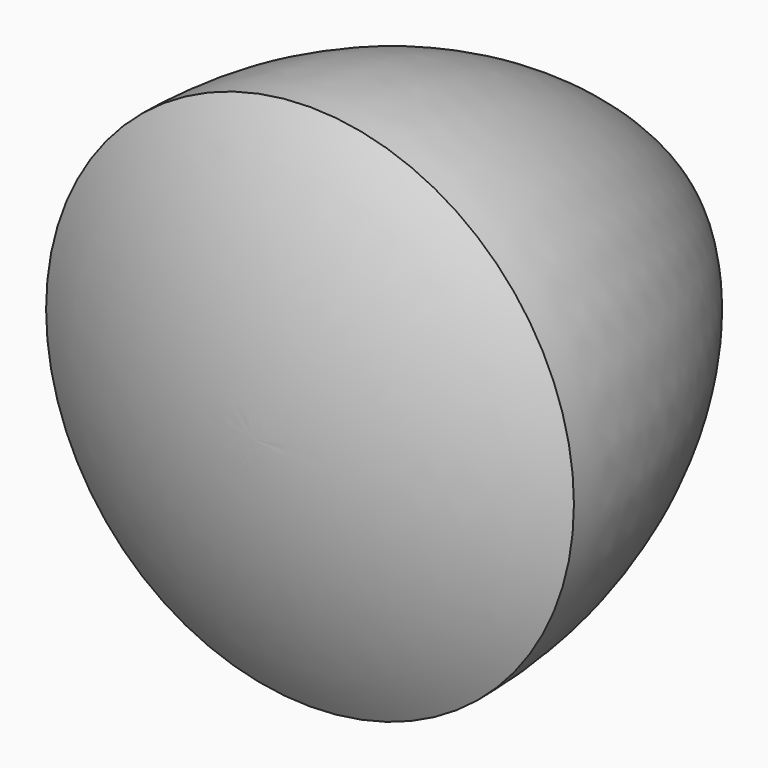
from build123d import *


with BuildPart() as f1:
    # F0 (on Top) → F1 (revolve)
    with BuildSketch(Plane.XY):
        with BuildLine():
            ThreePointArc((0, 43.994091), (-18.594091, 25.4), (-25.4, 0))
            Line((-25.4, 0), (0, 43.994091))
        make_face()
        Polygon((0, 43.994091), (-25.4, 0), (0, 0), align=None)
        with BuildLine():
            Line((25.4, 0), (0, 0))
            Line((0, 0), (0, -6.805909))
            ThreePointArc((0, -6.805909), (13.148007, -5.074941), (25.4, 0))
        make_face()
    revolve(axis=Axis((0, 21.997045, 0), (0, -1, 0)))


solid = f1.part
